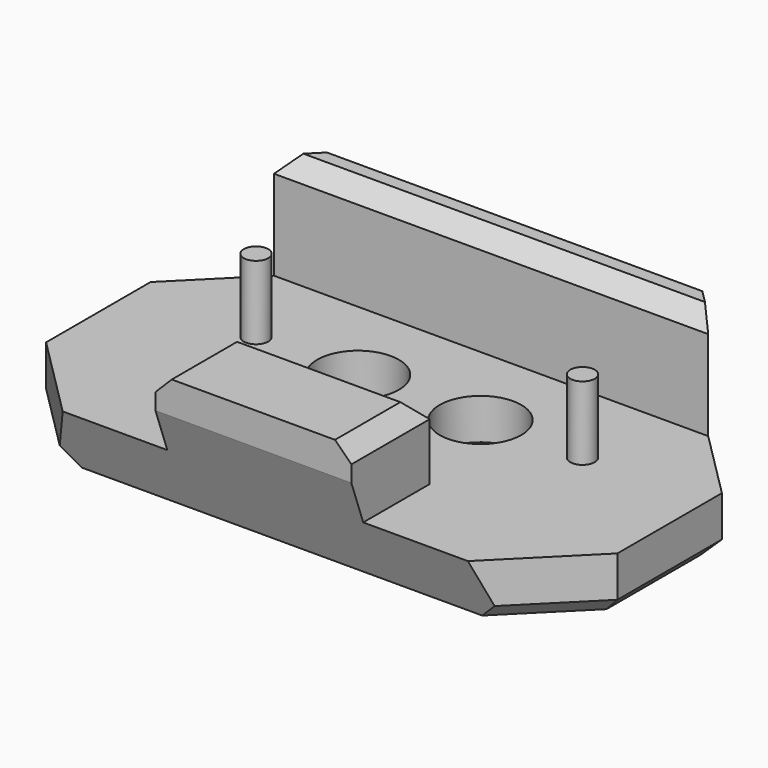
from build123d import *

# Parameters (mm, degrees)
F0_W     = 35
F0_H     = 20
F1_DEPTH = 10
F2_R     = 0.75
F2_R_2   = 2.5
F3_DEPTH = 6.5
F4_DEPTH = 2
F5_DEPTH = 25
F6_SIZE2 = 6
F6_SIZE  = 6
F7_SIZE  = 1
F8_SIZE2 = 2.1838214056
F8_SIZE  = 6


with BuildPart() as f1:
    # F0 (on Top) → F1 (new body)
    with BuildSketch(Plane.XY):
        with Locations((17.5, 10)):
            Rectangle(F0_W, F0_H)
    extrude(amount=F1_DEPTH)

    # F2 (on face) → F3 (cut)
    with BuildSketch(Plane.XY.offset(10)):
        Polygon((35, 18.2), (0, 18.2), (0, 0), (11.5, 0), (11.5, 6), (23.5, 6), (23.5, 0), (35, 0), align=None)
        with Locations((7.5, 12.7)):
            Circle(F2_R, mode=Mode.SUBTRACT)
        with Locations((13.75, 12.7)):
            Circle(F2_R_2, mode=Mode.SUBTRACT)
        with Locations((21.25, 12.7)):
            Circle(F2_R_2, mode=Mode.SUBTRACT)
        with Locations((27.5, 12.7)):
            Circle(F2_R, mode=Mode.SUBTRACT)
    extrude(amount=-F3_DEPTH, mode=Mode.SUBTRACT)

    # F4 (cut): faces of the model
    f4_faces = [f1.faces().sort_by_distance(p)[0] for p in [
        (7.5, 12.7, 10),
        (17.5, 3, 10),
        (27.5, 12.7, 10),
    ]]
    extrude(f4_faces, amount=-F4_DEPTH, mode=Mode.SUBTRACT)

    # F5 (cut): faces of the model
    f5_faces = [f1.faces().sort_by_distance(p)[0] for p in [
        (13.75, 12.7, 10),
        (21.25, 12.7, 10),
    ]]
    extrude(f5_faces, amount=-F5_DEPTH, mode=Mode.SUBTRACT)

    # F6
    f6_edges = [f1.edges().sort_by_distance(p)[0] for p in [
        (35, 0, 1.75),
        (35, 20, 5),
        (0, 0, 1.75),
        (0, 20, 5),
    ]]
    chamfer(f6_edges, length=F6_SIZE, length2=F6_SIZE2)

    # F7
    f7_edges = [f1.edges().sort_by_distance(p)[0] for p in [
        (17.5, 20, 0),
        (32, 17, 0),
        (3, 17, 0),
        (17.5, 18.2, 10),
        (17.5, 6, 8),
        (23.5, 3, 8),
        (11.5, 3, 8),
        (35, 10, 0),
        (0, 10, 0),
        (18.75, 12.7, 0),
        (11.25, 12.7, 0),
        (3, 3, 0),
        (32, 3, 0),
    ]]
    chamfer(f7_edges, length=F7_SIZE)

    # F8
    f8_edges = [f1.edges().sort_by_distance(p)[0] for p in [
        (17.5, 0, 0),
    ]]
    f8_side = f1.faces().sort_by_distance((17.5, 0, 3.355675))[0]
    chamfer(f8_edges, length=F8_SIZE, length2=F8_SIZE2, reference=f8_side)


solid = f1.part
